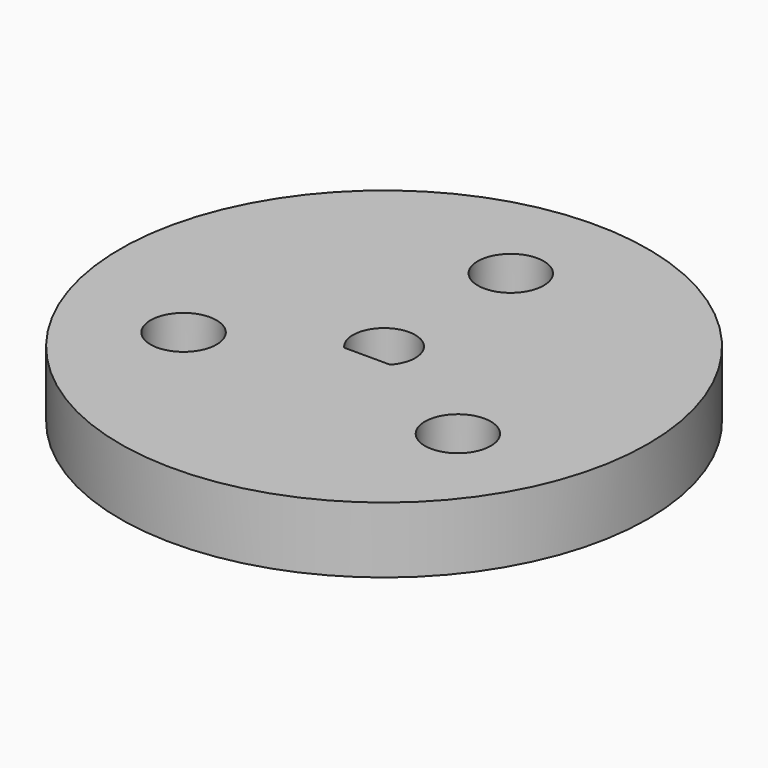
from build123d import *

# Parameters (mm, degrees)
F0_R     = 12.7
F0_R_2   = 1.5875
F1_DEPTH = 3.175
F2_R     = 12.7
F2_R_2   = 1.5875
F3_DEPTH = 25.4


with BuildPart() as f1:
    # F0 (on Top) → F1 (new body)
    with BuildSketch(Plane.XY):
        Circle(F0_R)
        with Locations((-6.599114, -3.81)):
            Circle(F0_R_2, mode=Mode.SUBTRACT)
        with Locations((6.599114, -3.81)):
            Circle(F0_R_2, mode=Mode.SUBTRACT)
        with Locations((0, 7.62)):
            Circle(F0_R_2, mode=Mode.SUBTRACT)
    extrude(amount=F1_DEPTH)

    # F2 (on face) → F3 (intersect)
    with BuildSketch(Plane.XY.offset(3.175)):
        Circle(F2_R)
        with Locations((-6.599114, -3.81)):
            Circle(F2_R_2, mode=Mode.SUBTRACT)
        with Locations((6.599114, -3.81)):
            Circle(F2_R_2, mode=Mode.SUBTRACT)
        with BuildLine():
            Line((1.1049, -1.014493), (-1.1049, -1.014493))
            ThreePointArc((-1.1049, -1.014493), (0, 1.5), (1.1049, -1.014493))
        make_face(mode=Mode.SUBTRACT)
        with Locations((0, 7.62)):
            Circle(F2_R_2, mode=Mode.SUBTRACT)
    extrude(amount=-F3_DEPTH, mode=Mode.INTERSECT)


solid = f1.part
